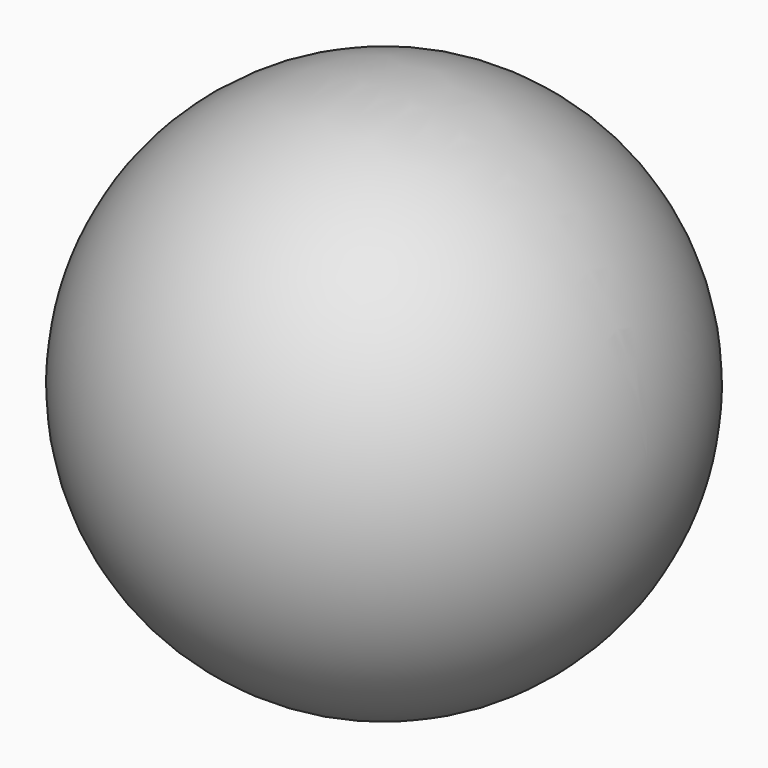
from build123d import *


with BuildPart() as f1:
    # F0 (on Front) → F1 (revolve)
    with BuildSketch(Plane.XZ):
        with BuildLine():
            Line((-76.8664628267, 0), (76.8664628267, 0))
            ThreePointArc((76.8664628267, 0), (0, 76.8664628267), (-76.8664628267, 0))
        make_face()
    revolve(axis=Axis((0, 0, 0), (1, 0, 0)))

    # F0 (on Front) → F2 (revolve)
    with BuildSketch(Plane.XZ):
        with BuildLine():
            Line((-76.8664628267, 0), (76.8664628267, 0))
            ThreePointArc((76.8664628267, 0), (0, 76.8664628267), (-76.8664628267, 0))
        make_face()
    revolve(axis=Axis((0, 0, 0), (1, 0, 0)))


solid = f1.part
